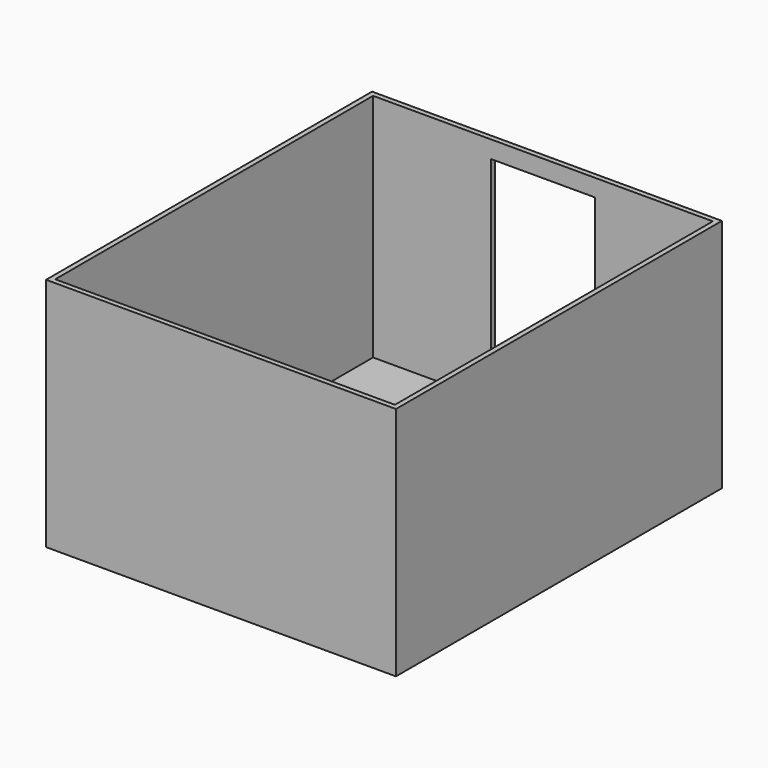
from build123d import *

# Parameters (mm, degrees)
F0_W     = 2950
F0_H     = 3450
F1_DEPTH = 2000
F2_T     = 44
F3_W     = 900
F3_H     = 1800
F4_DEPTH = 44


with BuildPart() as f1:
    # F0 (on Top) → F1 (new body)
    with BuildSketch(Plane.XY):
        Rectangle(F0_W, F0_H)
    extrude(amount=F1_DEPTH)

    # F2
    f2_openings = [f1.faces().sort_by_distance(p)[0] for p in [
        (0, 0, 2000),
    ]]
    offset(amount=F2_T, openings=f2_openings, kind=Kind.INTERSECTION)

    # F3 (on face) → F4 (cut, through all)
    with BuildSketch(Plane(origin=(0, 1769, 0), x_dir=(-1, 0, 0), z_dir=(0, 1, 0))):
        with Locations((0, 950)):
            Rectangle(F3_W, F3_H)
    extrude(amount=-F4_DEPTH, mode=Mode.SUBTRACT)


solid = f1.part
